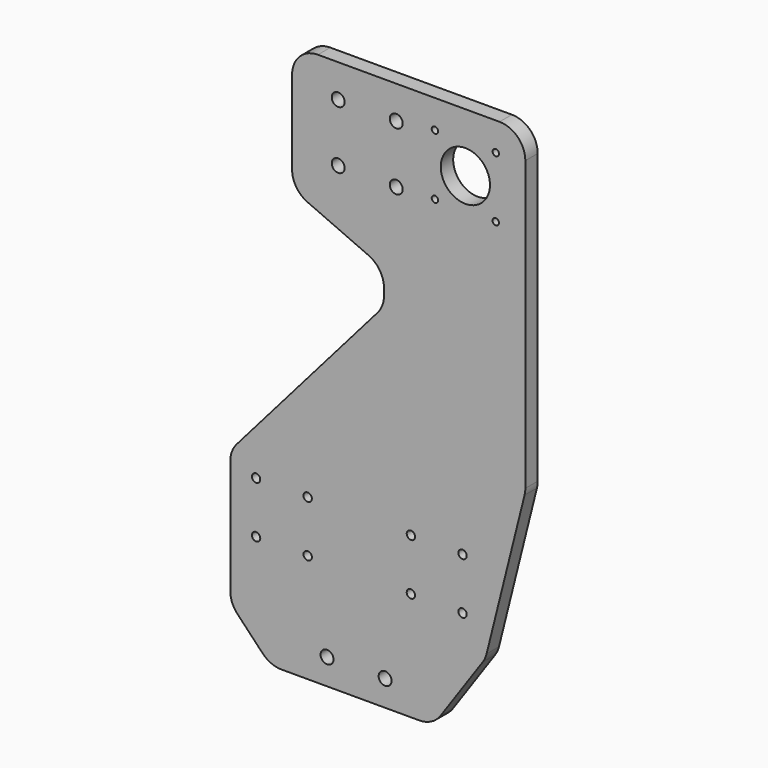
from build123d import *

# Parameters (mm, degrees)
F0_R     = 3.24
F0_R_2   = 5
F0_R_3   = 2.5
F0_R_4   = 19.05
F1_DEPTH = 12


with BuildPart() as f1:
    # F0 (on Front) → F1 (new body)
    with BuildSketch(Plane.XZ):
        with BuildLine():
            Line((115.360413, 205), (85.230881, 205))
            Line((85.230881, 205), (25.307446, 205))
            Line((25.307446, 205), (10.35451, 205))
            Line((10.35451, 205), (-13.005401, 205))
            Line((-13.005401, 205), (-25.421186, 205))
            ThreePointArc((-25.421186, 205), (-39.563321, 199.142136), (-45.421186, 185))
            Line((-45.421186, 185), (-45.421186, 120.10159))
            ThreePointArc((-45.421186, 120.10159), (-42.182465, 109.190149), (-33.515232, 101.81262))
            Line((-33.515232, 101.81262), (13.877641, 80.838222))
            ThreePointArc((13.877641, 80.838222), (22.544873, 73.460693), (25.783595, 62.549252))
            Line((25.783595, 62.549252), (25.783595, 57.225308))
            ThreePointArc((25.783595, 57.225308), (24.512499, 50.209031), (20.860781, 44.08459))
            Line((20.860781, 44.08459), (-88.418227, -81.298206))
            ThreePointArc((-88.418227, -81.298206), (-92.069946, -87.422647), (-93.341041, -94.438924))
            Line((-93.341041, -94.438924), (-93.341041, -135.075137))
            Line((-93.341041, -135.075137), (-93.341041, -183.041223))
            ThreePointArc((-93.341041, -183.041223), (-91.911264, -190.467313), (-87.826359, -196.831639))
            Line((-87.826359, -196.831639), (-68.18331, -217.464505))
            ThreePointArc((-68.18331, -217.464505), (-61.578084, -222.056258), (-53.697992, -223.674089))
            Line((-53.697992, -223.674089), (53.22585, -223.674089))
            ThreePointArc((53.22585, -223.674089), (62.510458, -221.388378), (69.672873, -215.053695))
            Line((69.672873, -215.053695), (102.386198, -167.7729))
            ThreePointArc((102.386198, -167.7729), (104.160024, -164.639544), (105.343296, -161.238918))
            Line((105.343296, -161.238918), (134.764535, -43.422655))
            ThreePointArc((134.764535, -43.422655), (135.210885, -41.018094), (135.360413, -38.577032))
            Line((135.360413, -38.577032), (135.360413, 185))
            ThreePointArc((135.360413, 185), (129.502549, 199.142136), (115.360413, 205))
        make_face()
        with Locations((-73.341041, -139.456751)):
            Circle(F0_R, mode=Mode.SUBTRACT)
        with Locations((-18.341041, -203.674089)):
            Circle(F0_R_2, mode=Mode.SUBTRACT)
        with Locations((-33.341041, -139.456751)):
            Circle(F0_R, mode=Mode.SUBTRACT)
        with Locations((-73.341041, -99.456751)):
            Circle(F0_R, mode=Mode.SUBTRACT)
        with Locations((-33.341041, -99.456751)):
            Circle(F0_R, mode=Mode.SUBTRACT)
        with Locations((26.658959, -203.674089)):
            Circle(F0_R_2, mode=Mode.SUBTRACT)
        with Locations((46.658959, -139.456751)):
            Circle(F0_R, mode=Mode.SUBTRACT)
        with Locations((86.658959, -139.456751)):
            Circle(F0_R, mode=Mode.SUBTRACT)
        with Locations((46.658959, -99.456751)):
            Circle(F0_R, mode=Mode.SUBTRACT)
        with Locations((86.658959, -99.456751)):
            Circle(F0_R, mode=Mode.SUBTRACT)
        with Locations((-9.692554, 134.456751)):
            Circle(F0_R_2, mode=Mode.SUBTRACT)
        with Locations((-9.692554, 179.456751)):
            Circle(F0_R_2, mode=Mode.SUBTRACT)
        with Locations((35.307446, 134.456751)):
            Circle(F0_R_2, mode=Mode.SUBTRACT)
        with Locations((65.307446, 135.886751)):
            Circle(F0_R_3, mode=Mode.SUBTRACT)
        with Locations((35.307446, 179.456751)):
            Circle(F0_R_2, mode=Mode.SUBTRACT)
        with Locations((65.307446, 183.026751)):
            Circle(F0_R_3, mode=Mode.SUBTRACT)
        with Locations((112.447446, 135.886751)):
            Circle(F0_R_3, mode=Mode.SUBTRACT)
        with Locations((88.877446, 159.456751)):
            Circle(F0_R_4, mode=Mode.SUBTRACT)
        with Locations((112.447446, 183.026751)):
            Circle(F0_R_3, mode=Mode.SUBTRACT)
    extrude(amount=F1_DEPTH)


solid = f1.part
